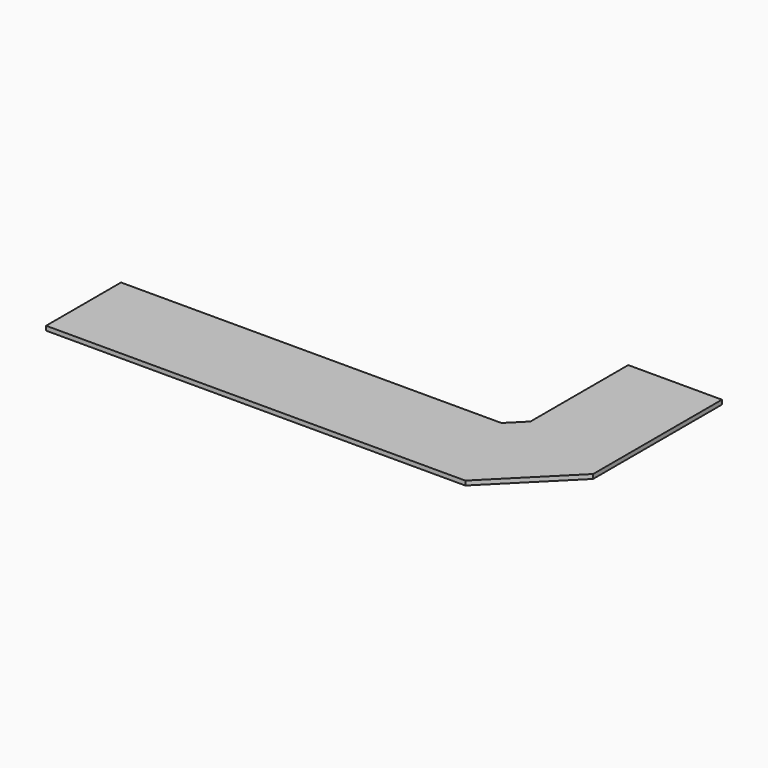
from build123d import *

# Parameters (mm, degrees)
F1_DEPTH = 25.4
F3_DEPTH = 25.4


with BuildPart() as f1:
    # F0 (on Top) → F1 (new body)
    with BuildSketch(Plane.XY):
        Polygon((-2540, -258.299129), (-2540, -486.899129), (-254, -486.899129), (0, -232.899129), (0, 554.500871), (-228.6, 554.500871), (-228.6, -138.209909), (-348.68922, -258.299129), align=None)
    extrude(amount=F1_DEPTH)

    # F2 (on face) → F3 (join)
    with BuildSketch(Plane.XY.offset(25.4)):
        Polygon((-367.101013, -213.849129), (-2584.45, -213.849129), (-2584.45, -759.949129), (-140.898987, -759.949129), (273.05, -346.000142), (273.05, 592.600871), (-273.05, 592.600871), (-273.05, -119.798116), align=None)
    extrude(amount=F3_DEPTH)


solid = f1.part
